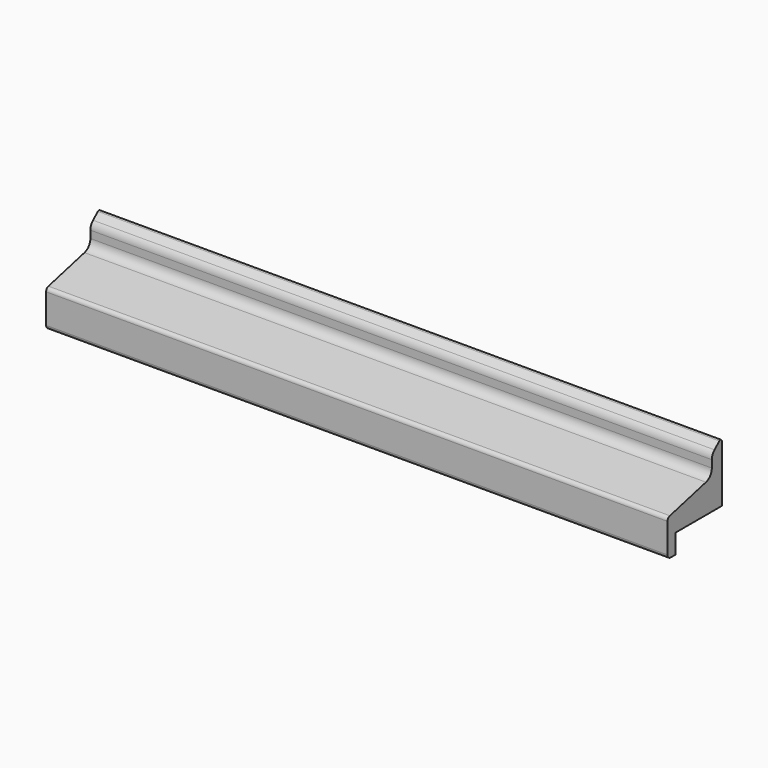
from build123d import *

# Parameters (mm, degrees)
F2_DEPTH = 160


with BuildPart() as f2:
    # F1 (on Right) → F2 (new body, symmetric)
    with BuildSketch(Plane.YZ):
        with BuildLine():
            Line((19.709609, -22.585842), (-3.483844, -28.36862))
            ThreePointArc((-3.483844, -28.36862), (-4.576022, -29.077888), (-5, -30.309211))
            Line((-5, -30.309211), (-5, -45.5))
            ThreePointArc((-5, -45.5), (-4.414214, -46.914214), (-3, -47.5))
            Line((-3, -47.5), (0, -47.5))
            Line((0, -47.5), (0, -37.5))
            Line((0, -37.5), (30, -37.5))
            Line((30, -37.5), (30, -8.184728))
            ThreePointArc((30, -8.184728), (29.414693, -7.274767), (28.343941, -7.430018))
            Line((28.343941, -7.430018), (25.219705, -10.145875))
            ThreePointArc((25.219705, -10.145875), (23.950194, -11.845957), (23.5, -13.919423))
            Line((23.5, -13.919423), (23.5, -17.734364))
            ThreePointArc((23.5, -17.734364), (22.440054, -20.812671), (19.709609, -22.585842))
        make_face()
    extrude(amount=F2_DEPTH, both=True)


solid = f2.part
